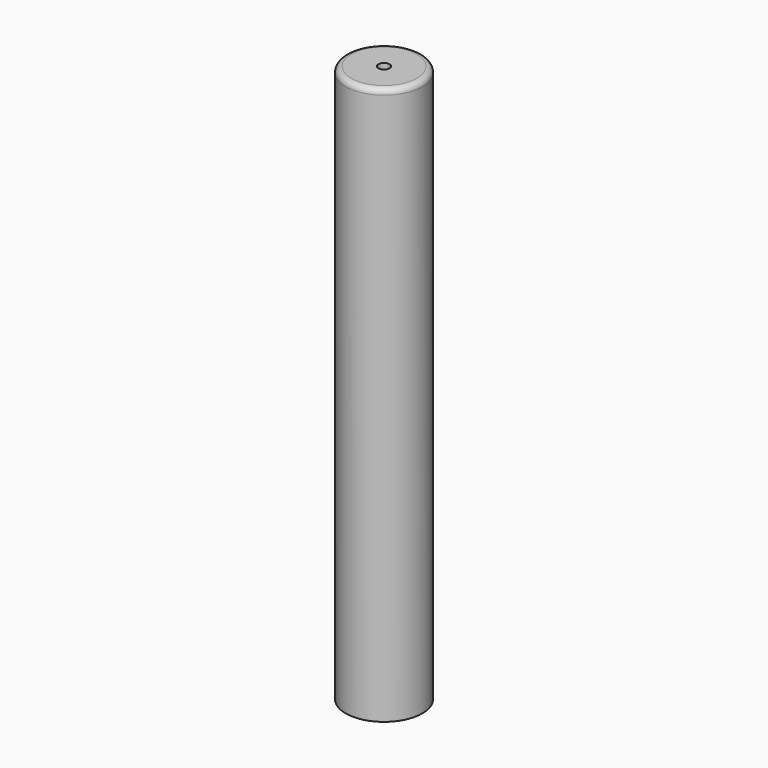
from build123d import *

# Parameters (mm, degrees)
F0_R           = 6.875
F1_DEPTH       = 100
F3_D           = 2
F3_CBORE_D     = 6.25
F3_CBORE_DEPTH = 6.5
F4_R           = 1


with BuildPart() as f1:
    # F0 (on Top) → F1 (new body)
    with BuildSketch(Plane.XY):
        Circle(F0_R)
    extrude(amount=F1_DEPTH)

    # F3 (through all)
    with Locations(Plane(origin=(0, 0, 0), x_dir=(1, 0, 0), z_dir=(0, 0, -1))):
        with Locations((0, 0)):
            CounterBoreHole(F3_D / 2, F3_CBORE_D / 2, F3_CBORE_DEPTH)

    # F4
    f4_edges = [f1.edges().sort_by_distance(p)[0] for p in [
        (-6.875, 0, 100),
    ]]
    fillet(f4_edges, radius=F4_R)


solid = f1.part
